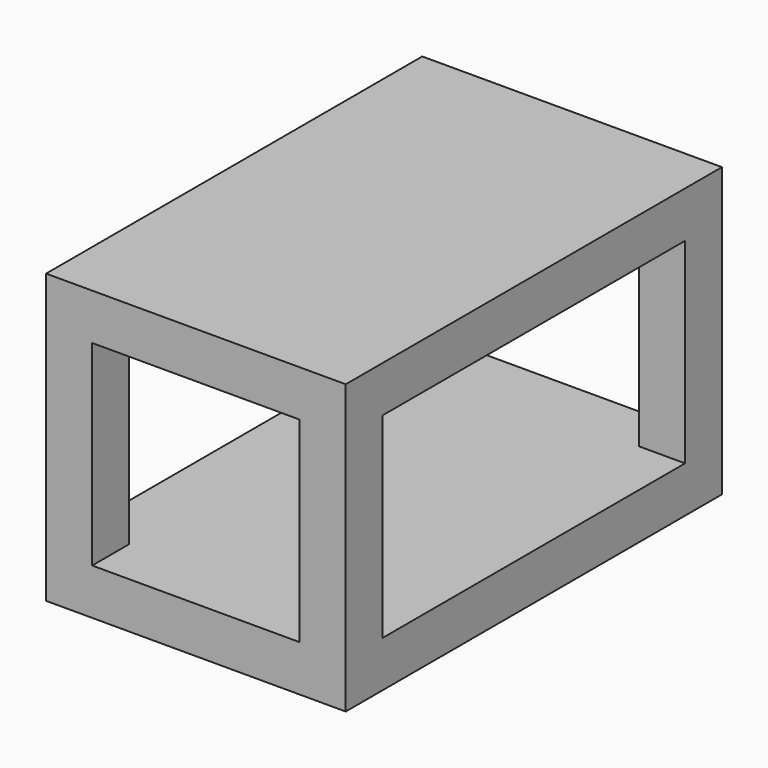
from build123d import *

# Parameters (mm, degrees)
F0_W     = 520
F0_H     = 816
F1_DEPTH = 500
F2_W     = 360
F2_H     = 340
F3_DEPTH = 816.001
F4_W     = 656
F4_H     = 340
F5_DEPTH = 520.001


with BuildPart() as f1:
    # F0 (on Top) → F1 (new body)
    with BuildSketch(Plane.XY):
        Rectangle(F0_W, F0_H)
    extrude(amount=F1_DEPTH)

    # F2 (on face) → F3 (cut, through all)
    with BuildSketch(Plane(origin=(0, 408, 0), x_dir=(-1, 0, 0), z_dir=(0, 1, 0))):
        with Locations((0, 250)):
            Rectangle(F2_W, F2_H)
    extrude(amount=-F3_DEPTH, mode=Mode.SUBTRACT)

    # F4 (on face) → F5 (cut, through all)
    with BuildSketch(Plane(origin=(-260, 0, 0), x_dir=(0, -1, 0), z_dir=(-1, 0, 0))):
        with Locations((0, 250)):
            Rectangle(F4_W, F4_H)
    extrude(amount=-F5_DEPTH, mode=Mode.SUBTRACT)


solid = f1.part
